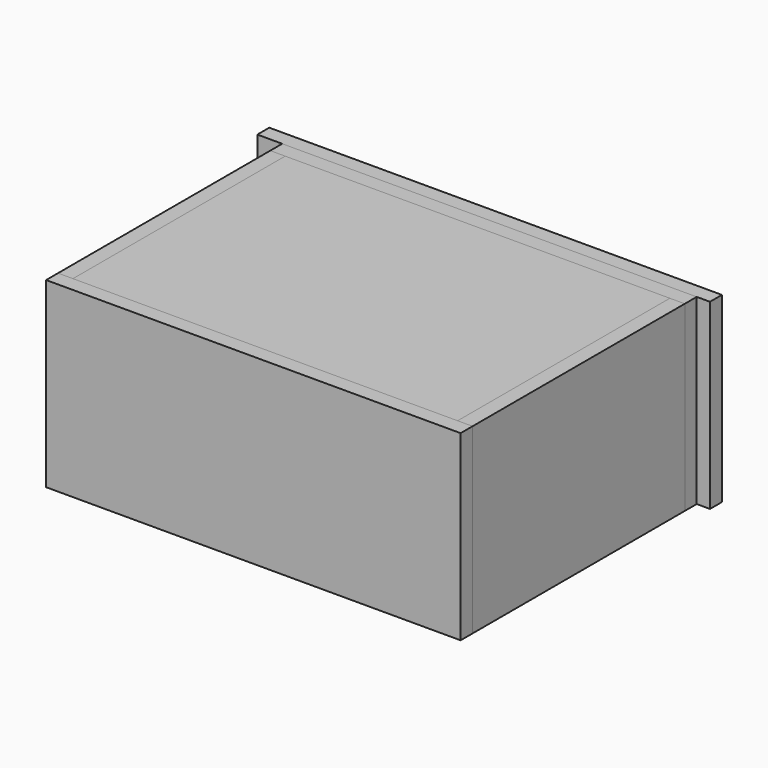
from build123d import *

# Parameters (mm, degrees)
F0_W      = 500
F0_H      = 220
F1_DEPTH  = 18
F2_W      = 18
F2_H      = 220
F3_DEPTH  = 320
F4_W      = 18
F4_H      = 220
F5_DEPTH  = 320
F6_W      = 464
F6_H      = 18
F8_DEPTH  = 320
F7_W      = 464
F7_H      = 18
F9_DEPTH  = 320
F10_W     = 500
F10_H     = 220
F10_R     = 30
F10_R_2   = 54
F11_DEPTH = 18
F14_W     = 546
F14_H     = 220
F15_DEPTH = 18


with BuildPart() as f1:
    # F0 (on Front) → F1 (new body)
    with BuildSketch(Plane.XZ):
        Rectangle(F0_W, F0_H)
    extrude(amount=F1_DEPTH)


with BuildPart() as f3:
    # F2 (on face) → F3 (new body)
    with BuildSketch(Plane(origin=(0, 0, 0), x_dir=(-1, 0, 0), z_dir=(0, 1, 0))):
        with Locations((-241, 0)):
            Rectangle(F2_W, F2_H)
    extrude(amount=F3_DEPTH)


with BuildPart() as f5:
    # F4 (on face) → F5 (new body)
    with BuildSketch(Plane(origin=(0, 0, 0), x_dir=(-1, 0, 0), z_dir=(0, 1, 0))):
        with Locations((241, 0)):
            Rectangle(F4_W, F4_H)
    extrude(amount=F5_DEPTH)


with BuildPart() as f8:
    # F6 (on face) → F8 (new body)
    with BuildSketch(Plane(origin=(0, 0, 0), x_dir=(-1, 0, 0), z_dir=(0, 1, 0))):
        with Locations((0, 101)):
            Rectangle(F6_W, F6_H)
    extrude(amount=F8_DEPTH)


with BuildPart() as f9:
    # F7 (on face) → F9 (new body)
    with BuildSketch(Plane(origin=(0, 0, 0), x_dir=(-1, 0, 0), z_dir=(0, 1, 0))):
        with Locations((0, -101)):
            Rectangle(F7_W, F7_H)
    extrude(amount=F9_DEPTH)


with BuildPart() as f11:
    # F10 (on face) → F11 (new body)
    with BuildSketch(Plane(origin=(0, 320, 0), x_dir=(-1, 0, 0), z_dir=(0, 1, 0))):
        Rectangle(F10_W, F10_H)
        with Locations((-182, -42)):
            Circle(F10_R, mode=Mode.SUBTRACT)
        with Locations((182, -42)):
            Circle(F10_R, mode=Mode.SUBTRACT)
        Circle(F10_R_2, mode=Mode.SUBTRACT)
    extrude(amount=F11_DEPTH)


with BuildPart() as f12_1:
    # F12: copy of F11
    add(f11.part.moved(Location((0, 18, 0))))


with BuildPart() as f15:
    # F14 (on face) → F15 (new body)
    with BuildSketch(Plane(origin=(0, 338, 0), x_dir=(-1, 0, 0), z_dir=(0, 1, 0))):
        with Locations((7, 0)):
            Rectangle(F14_W, F14_H)
    extrude(amount=F15_DEPTH)


solid = Compound([f1.part, f3.part, f5.part, f8.part, f9.part, f11.part, f15.part])
